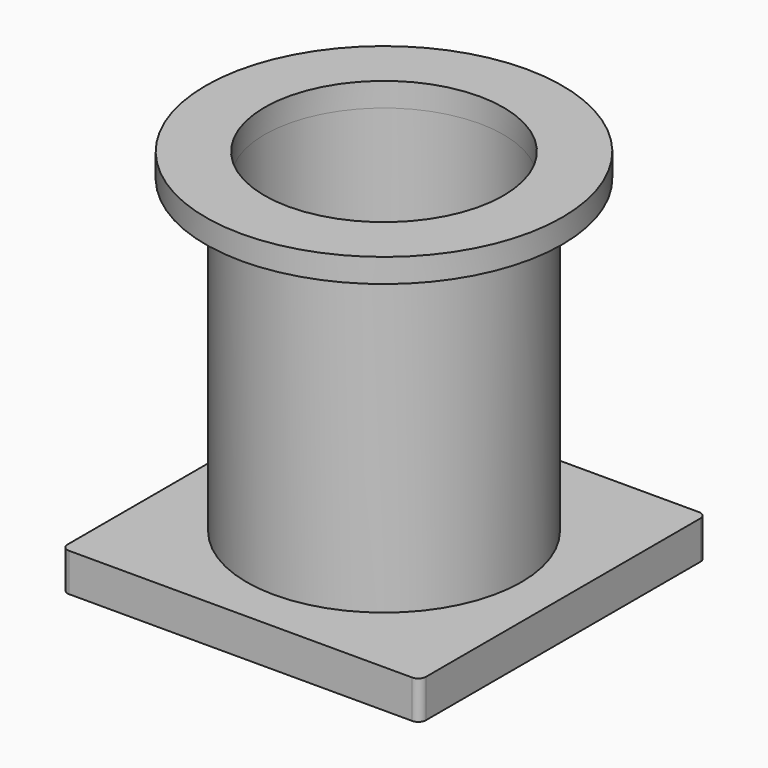
from build123d import *

# Parameters (mm, degrees)
F0_W      = 150
F0_H      = 150
F1_DEPTH  = 16
F2_R      = 3.2
F4_R      = 57.5
F5_DEPTH  = 130
F6_R      = 50
F7_DEPTH  = 146.001
F9_R      = 74.633597
F9_R_2    = 50
F10_DEPTH = 10


with BuildPart() as f1:
    # F0 (on Top) → F1 (new body)
    with BuildSketch(Plane.XY):
        Rectangle(F0_W, F0_H)
    extrude(amount=F1_DEPTH)

    # F2
    f2_edges = [f1.edges().sort_by_distance(p)[0] for p in [
        (-75, 75, 8),
        (75, 75, 8),
        (75, -75, 8),
        (-75, -75, 8),
    ]]
    fillet(f2_edges, radius=F2_R)

    # F4 (on face) → F5 (join)
    with BuildSketch(Plane.XY.offset(16)):
        Circle(F4_R)
    extrude(amount=F5_DEPTH)

    # F6 (on face) → F7 (cut, through all)
    with BuildSketch(Plane.XY.offset(146)):
        Circle(F6_R)
    extrude(amount=-F7_DEPTH, mode=Mode.SUBTRACT)

    # F9 (on face) → F10 (join)
    with BuildSketch(Plane.XY.offset(146)):
        Circle(F9_R)
        Circle(F9_R_2, mode=Mode.SUBTRACT)
    extrude(amount=F10_DEPTH)


solid = f1.part
